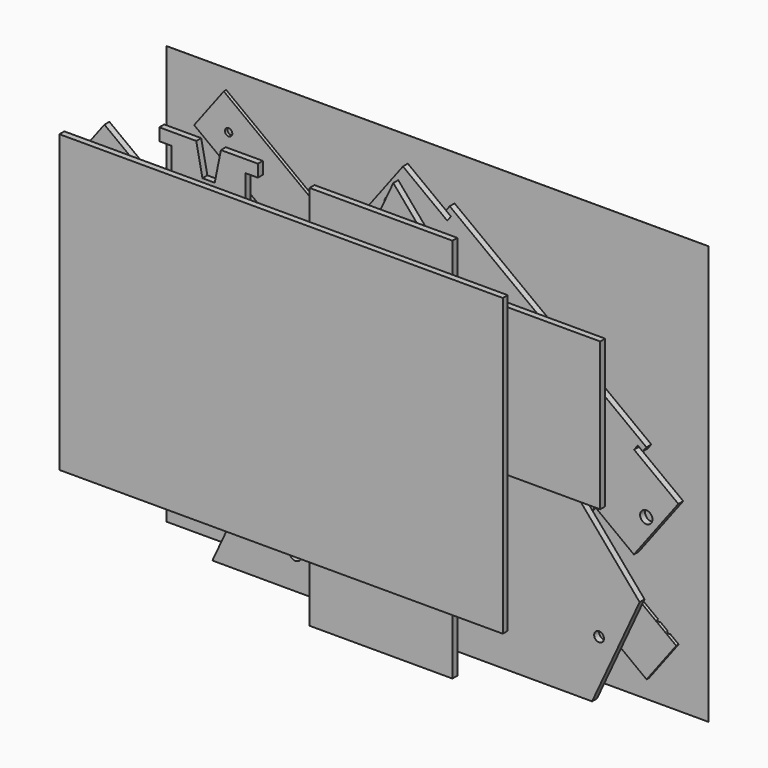
from build123d import *

# Parameters (mm, degrees)
F1_R      = 1.905
F2_DEPTH  = 1.5875
F4_R      = 2.54
F5_DEPTH  = 3.175
F7_DEPTH  = 3.175
F8_R      = 3.175
F9_DEPTH  = 3.175
F12_DEPTH = 3.175
F14_W     = 226.06
F14_H     = 76.2
F15_DEPTH = 3.175
F17_DEPTH = 53.976
F19_W     = 228.6
F19_H     = 152.4
F20_DEPTH = 3.175
F21_W     = 73.66
F21_H     = 198.755
F22_DEPTH = 3.175
F23_R     = 3.175
F24_DEPTH = 53.976
F0_W      = 279.4
F0_H      = 215.9
F25_DEPTH = 0.0254
F26_R     = 1.905
F27_DEPTH = 3.175
F28_R     = 0.762
F29_DEPTH = 25.4
F30_R     = 0.762
F31_DEPTH = 182.9872620439


with BuildPart() as f2:
    # F1 (on Front) → F2 (new body, symmetric)
    with BuildSketch(Plane.XZ):
        Polygon((124.2837670364, -77.7524131538), (-108.9976654484, 98.037755109), (-124.2837670364, 77.7524131538), (108.9976654484, -98.037755109), align=None)
        with Locations((-55.7846903768, 42.0367793672)):
            Circle(F1_R, mode=Mode.SUBTRACT)
        with Locations((-106.4980452648, 80.2520333373)):
            Circle(F1_R, mode=Mode.SUBTRACT)
    extrude(amount=F2_DEPTH, both=True)

    # F28 (on face) → F29 (cut)
    with BuildSketch(Plane(origin=(116.6407162424, 0, -87.8950841314), x_dir=(0, 1, 0), z_dir=(0.79863551, 0, -0.6018150232))):
        with Locations((0, 0.762)):
            Circle(F28_R)
    extrude(amount=-F29_DEPTH, mode=Mode.SUBTRACT)

    # F30 (on face) → F31 (cut, through all)
    with BuildSketch(Plane(origin=(-7.643050794, 0, -10.1426709776), x_dir=(0.79863551, 0, -0.6018150232), z_dir=(-0.6018150232, 0, -0.79863551))):
        with Locations((139.7, 0)):
            Circle(F30_R)
        with Locations((133.35, 0)):
            Circle(F30_R)
    extrude(amount=-F31_DEPTH, mode=Mode.SUBTRACT)


with BuildPart() as f5:
    # F4 (on offset) → F5 (new body)
    with BuildSketch(Plane.XZ.offset(25.4)):
        Polygon((127, -46.1061968403), (0, 102.87), (-45.9747141485, 3.4477209816), (46.2430518976, -39.1954921416), (44.9104514875, -42.0772973306), (-47.3073145586, 0.5659157926), (-93.2820287071, -98.8563632258), (102.4801524541, -99.1314123168), align=None)
        with Locations((106.0946606603, -68.6210033482)):
            Circle(F4_R, mode=Mode.SUBTRACT)
    extrude(amount=F5_DEPTH)

    # F23 (on face) → F24 (cut, through all)
    with BuildSketch(Plane.XZ.offset(28.575)):
        with Locations((-50.4716725116, -81.9234128429)):
            Circle(F23_R)
        with Locations((14.8257475833, 59.2850414151)):
            Circle(F23_R)
    extrude(amount=-F24_DEPTH, mode=Mode.SUBTRACT)


with BuildPart() as f7:
    # F6 (on offset) → F7 (new body)
    with BuildSketch(Plane.XZ.offset(25.4)):
        Polygon((-69.85, 88.9), (-120.65, 88.9), (-120.65, 82.55), (-114.3, 82.55), (-114.3, 44.45), (-104.775, 44.45), (-104.775, 41.275), (-85.725, 41.275), (-85.725, 44.45), (-76.2, 44.45), (-76.2, 82.55), (-69.85, 82.55), align=None)
    extrude(amount=F7_DEPTH)

    # F16 (on face) → F17 (cut, through all)
    with BuildSketch(Plane.XZ.offset(28.575)):
        Polygon((-95.25, 88.9), (-101.6, 88.9), (-98.425, 73.025), (-95.25, 73.025), (-92.075, 73.025), (-88.9, 88.9), align=None)
    extrude(amount=-F17_DEPTH, mode=Mode.SUBTRACT)


with BuildPart() as f9:
    # F8 (on Front) → F9 (new body)
    with BuildSketch(Plane.XZ):
        Polygon((-19.9029344652, 46.8021825923), (-21.8136971637, 44.2665148479), (79.6130126123, -32.1639930924), (81.5237753108, -29.628325348), (78.9881075664, -27.7175626495), (80.8988702649, -25.1818949051), (103.7198799645, -42.3787591916), (126.6490323466, -11.9507462588), (103.828022647, 5.2461180277), (105.7387853455, 7.7817857721), (108.2744530899, 5.8710230736), (110.1852157884, 8.406690818), (8.7585060124, 84.8371987583), (6.8477433139, 82.3015310139), (9.3834110583, 80.3907683154), (7.4726483598, 77.855100571), (-15.3483613398, 95.0519648576), (-38.2775137219, 64.6239519248), (-15.4565040223, 47.4270876382), (-17.3672667208, 44.8914198938), align=None)
        Polygon((27.6498476325, 14.9441217636), (37.7925186101, 7.3010709696), (35.8817559116, 4.7654032252), (25.739084934, 12.4084540192), align=None, mode=Mode.SUBTRACT)
        with Locations((110.1131206668, -23.3432273282)):
            Circle(F8_R, mode=Mode.SUBTRACT)
        with Locations((-21.741602042, 76.0164329942)):
            Circle(F8_R, mode=Mode.SUBTRACT)
        Polygon((50.5790000146, 45.3721346964), (52.4897627131, 47.9078024408), (62.6324336907, 40.2647516468), (60.7216709922, 37.7290839024), align=None, mode=Mode.SUBTRACT)
    extrude(amount=F9_DEPTH)


with BuildPart() as f12:
    # F11 (on offset) → F12 (new body)
    with BuildSketch(Plane.XZ.offset(-25.4)):
        Polygon((-139.7, -101.6), (12.7, -101.6), (12.7, 0), (-24.5201073247, -79.81877774), (-102.4798926753, -79.81877774), (-139.7, 0), align=None)
    extrude(amount=F12_DEPTH)


with BuildPart() as f15:
    # F14 (on offset) → F15 (new body)
    with BuildSketch(Plane.XZ.offset(50.8)):
        with Locations((13.97, 44.45)):
            Rectangle(F14_W, F14_H)
    extrude(amount=F15_DEPTH)

    # F21 (on face) → F22 (join)
    with BuildSketch(Plane.XZ.offset(53.975)):
        with Locations((13.97, 4.1275)):
            Rectangle(F21_W, F21_H)
    extrude(amount=-F22_DEPTH)


with BuildPart() as f20:
    # F19 (on offset) → F20 (new body)
    with BuildSketch(Plane.XZ.offset(76.2)):
        with Locations((-17.2213017941, 26.6749513012)):
            Rectangle(F19_W, F19_H)
    extrude(amount=F20_DEPTH)


with BuildPart() as f25:
    # F0 (on Front) → F25 (new body)
    with BuildSketch(Plane.XZ):
        Rectangle(F0_W, F0_H)
    extrude(amount=F25_DEPTH)


with BuildPart() as f27:
    # F26 (on face) → F27 (new body)
    with BuildSketch(Plane.XZ.offset(0.0254)):
        Polygon((13.3254593266, -73.5762905356), (-169.2426182702, 63.998623757), (-184.5287198583, 43.7132818017), (-1.9606422615, -93.8616324908), align=None)
        with Locations((-166.7429980867, 46.2129019853)):
            Circle(F26_R, mode=Mode.SUBTRACT)
    extrude(amount=F27_DEPTH)


solid = Compound([f2.part, f5.part, f7.part, f9.part, f12.part, f15.part, f20.part, f25.part, f27.part])
